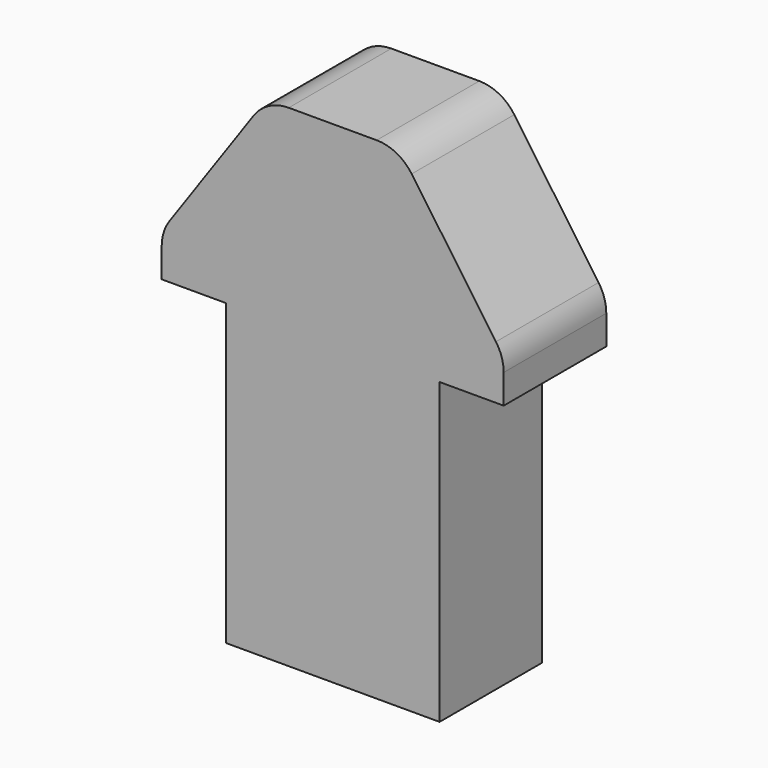
from build123d import *

# Parameters (mm, degrees)
F1_DEPTH = 19.05


with BuildPart() as f1:
    # F0 (on Front) → F1 (new body)
    with BuildSketch(Plane.XZ):
        with BuildLine():
            Line((-15.875, 0), (0, 0))
            Line((0, 0), (15.875, 0))
            Line((15.875, 0), (15.875, 44.45))
            Line((15.875, 44.45), (25.4, 44.45))
            Line((25.4, 44.45), (25.4, 48.797853))
            ThreePointArc((25.4, 48.797853), (25.106103, 50.707335), (24.251615, 52.440063))
            Line((24.251615, 52.440063), (11.733902, 70.31721))
            ThreePointArc((11.733902, 70.31721), (9.46439, 72.307519), (6.532287, 73.025))
            Line((6.532287, 73.025), (0, 73.025))
            Line((0, 73.025), (-6.532287, 73.025))
            ThreePointArc((-6.532287, 73.025), (-9.46439, 72.307519), (-11.733902, 70.31721))
            Line((-11.733902, 70.31721), (-24.251615, 52.440063))
            ThreePointArc((-24.251615, 52.440063), (-25.106103, 50.707335), (-25.4, 48.797853))
            Line((-25.4, 48.797853), (-25.4, 44.45))
            Line((-25.4, 44.45), (-15.875, 44.45))
            Line((-15.875, 44.45), (-15.875, 0))
        make_face()
    extrude(amount=F1_DEPTH)


solid = f1.part
